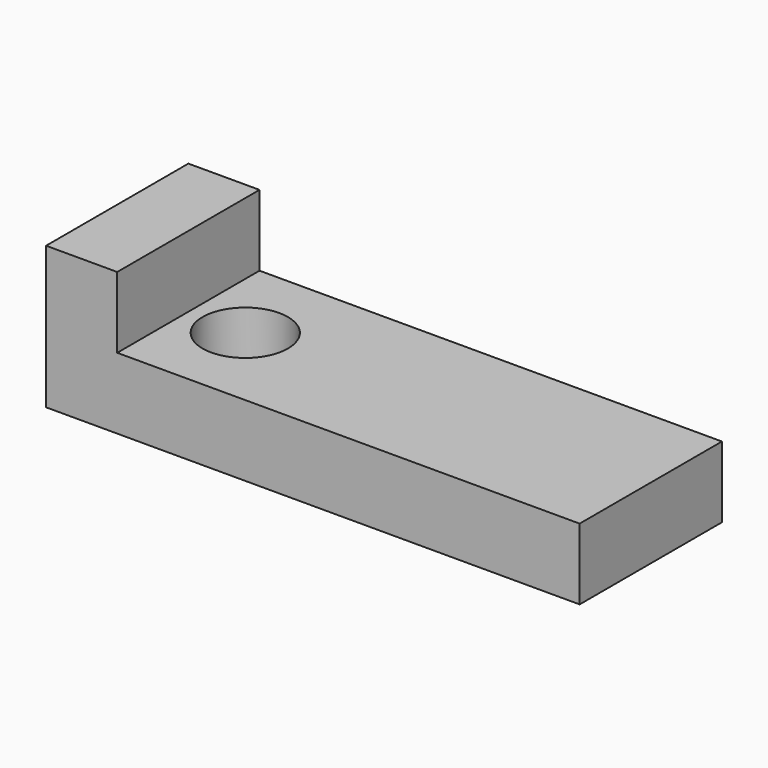
from build123d import *

# Parameters (mm, degrees)
F1_DEPTH = 25
F2_R     = 6
F3_DEPTH = 20.001


with BuildPart() as f1:
    # F0 (on Front) → F1 (new body)
    with BuildSketch(Plane.XZ):
        Polygon((0, 20), (0, 0), (75, 0), (75, 10), (10, 10), (10, 20), align=None)
    extrude(amount=F1_DEPTH)

    # F2 (on Top) → F3 (cut, through all)
    with BuildSketch(Plane.XY):
        with Locations((18, -12.5)):
            Circle(F2_R)
    extrude(amount=F3_DEPTH, mode=Mode.SUBTRACT)


solid = f1.part
